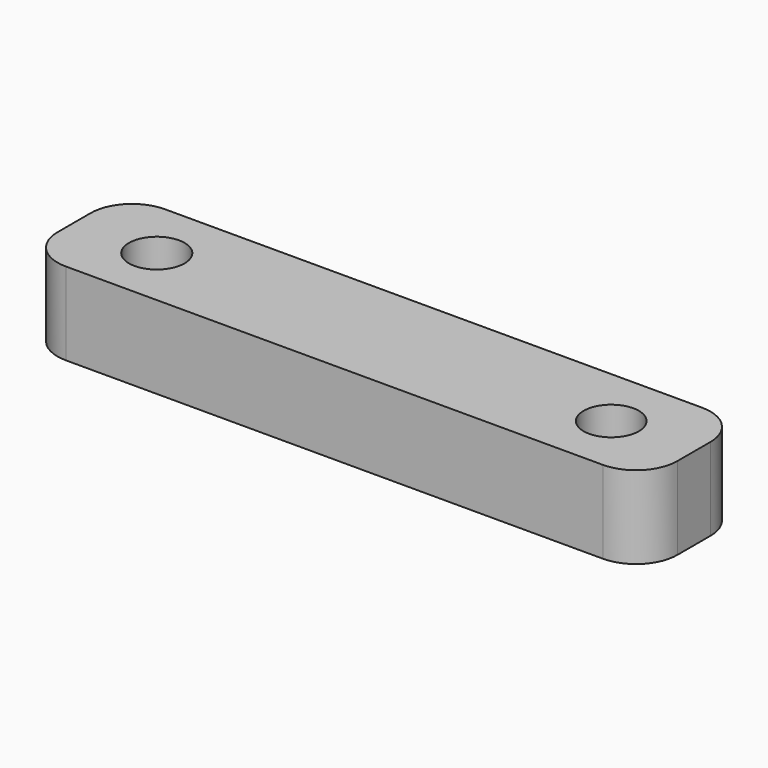
from build123d import *

# Parameters (mm, degrees)
F0_R     = 1.344946
F0_R_2   = 1.337951
F1_DEPTH = 4


with BuildPart() as f1:
    # F0 (on Top) → F1 (new body)
    with BuildSketch(Plane.XY):
        with BuildLine():
            ThreePointArc((15, 1), (14.414214, 2.414214), (13, 3))
            Line((13, 3), (-13, 3))
            ThreePointArc((-13, 3), (-14.414214, 2.414214), (-15, 1))
            Line((-15, 1), (-15, -1))
            ThreePointArc((-15, -1), (-14.414214, -2.414214), (-13, -3))
            Line((-13, -3), (13, -3))
            ThreePointArc((13, -3), (14.414214, -2.414214), (15, -1))
            Line((15, -1), (15, 1))
        make_face()
        with Locations((-11, 0)):
            Circle(F0_R, mode=Mode.SUBTRACT)
        with Locations((11, 0)):
            Circle(F0_R_2, mode=Mode.SUBTRACT)
    extrude(amount=F1_DEPTH)


solid = f1.part
